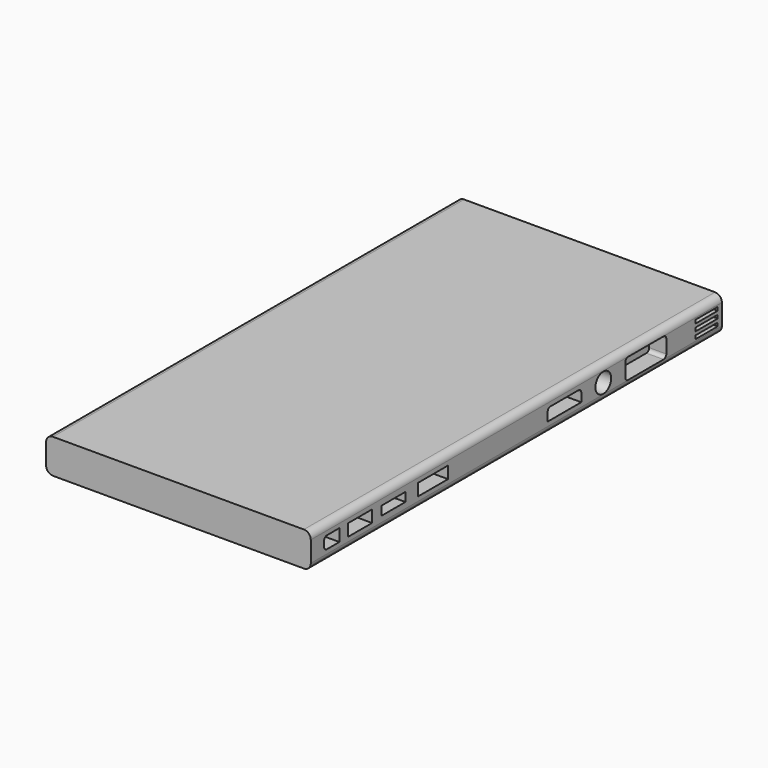
from build123d import *

# Parameters (mm, degrees)
F0_W     = 149.5
F0_H     = 10
F1_DEPTH = 77
F2_W     = 8.803204
F2_H     = 3.489598
F2_W_2   = 8.66519
F2_H_2   = 2.593696
F2_W_3   = 10.99455
F2_W_4   = 8
F2_H_3   = 1
F2_R     = 2.858647
F3_DEPTH = 5
F4_R     = 2


with BuildPart() as f1:
    # F0 (on Right) → F1 (new body)
    with BuildSketch(Plane.YZ):
        with Locations((5.531953, 11.592195)):
            Rectangle(F0_W, F0_H)
    extrude(amount=F1_DEPTH)

    # F2 (on face) → F3 (cut)
    with BuildSketch(Plane.YZ.offset(77)):
        with Locations((-51.334385, 11.592195)):
            Rectangle(F2_W, F2_H)
        with Locations((-39.154455, 11.592195)):
            Rectangle(F2_W_2, F2_H_2)
        with Locations((-24.805639, 11.592195)):
            Rectangle(F2_W_3, F2_H)
        with BuildLine():
            ThreePointArc((29.137943, 12.336994), (28.84505, 13.044101), (28.137943, 13.336994))
            Line((28.137943, 13.336994), (17.9199, 13.336994))
            ThreePointArc((17.9199, 13.336994), (17.212793, 13.044101), (16.9199, 12.336994))
            Line((16.9199, 12.336994), (16.9199, 9.847396))
            Line((16.9199, 9.847396), (29.137943, 9.847396))
            Line((29.137943, 9.847396), (29.137943, 12.336994))
        make_face()
        with BuildLine():
            ThreePointArc((60.062144, 13.554728), (59.769251, 14.261835), (59.062144, 14.554728))
            Line((59.062144, 14.554728), (46.137439, 14.554728))
            ThreePointArc((46.137439, 14.554728), (45.430332, 14.261835), (45.137439, 13.554728))
            Line((45.137439, 13.554728), (45.137439, 9.629662))
            ThreePointArc((45.137439, 9.629662), (45.430332, 8.922555), (46.137439, 8.629662))
            Line((46.137439, 8.629662), (59.062144, 8.629662))
            ThreePointArc((59.062144, 8.629662), (59.769251, 8.922555), (60.062144, 9.629662))
            Line((60.062144, 9.629662), (60.062144, 13.554728))
        make_face()
        with Locations((74.748188, 11.592195)):
            Rectangle(F2_W_4, F2_H_3)
        with Locations((37.137654, 11.592195)):
            Circle(F2_R)
        with Locations((74.748188, 13.592195)):
            Rectangle(F2_W_4, F2_H_3)
        with Locations((74.748188, 9.592195)):
            Rectangle(F2_W_4, F2_H_3)
        with BuildLine():
            Line((-58.815029, 9.805481), (-58.815029, 13.378909))
            Line((-58.815029, 13.378909), (-63.356361, 13.378909))
            ThreePointArc((-63.356361, 13.378909), (-64.063467, 13.086016), (-64.356361, 12.378909))
            Line((-64.356361, 12.378909), (-64.356361, 10.805481))
            ThreePointArc((-64.356361, 10.805481), (-64.063467, 10.098374), (-63.356361, 9.805481))
            Line((-63.356361, 9.805481), (-58.815029, 9.805481))
        make_face()
    extrude(amount=-F3_DEPTH, mode=Mode.SUBTRACT)

    # F4
    f4_edges = [f1.edges().sort_by_distance(p)[0] for p in [
        (77, 5.531953, 16.592195),
        (77, 5.531953, 6.592195),
        (0, 5.531953, 16.592195),
        (0, 5.531953, 6.592195),
    ]]
    fillet(f4_edges, radius=F4_R)


solid = f1.part
